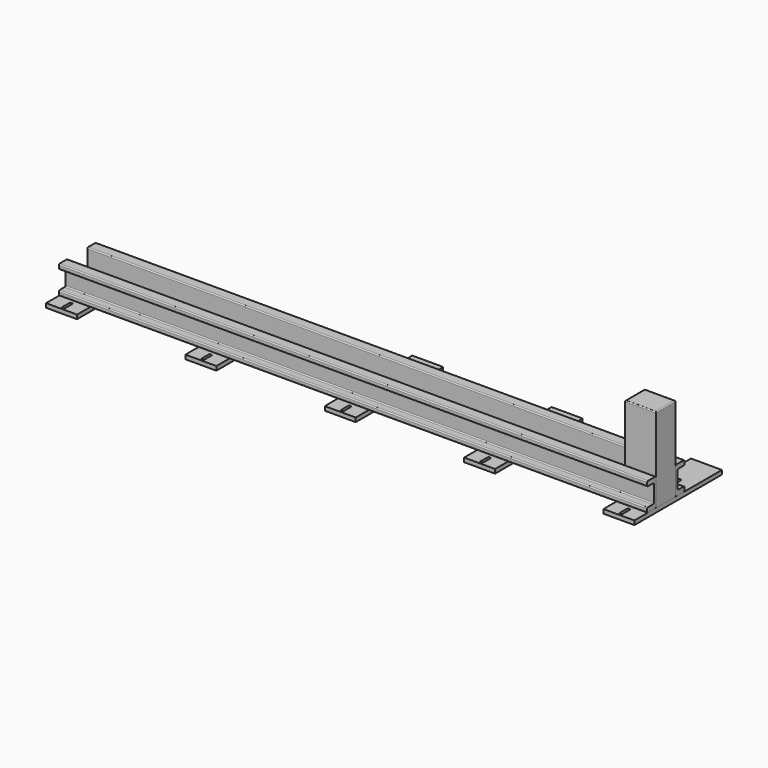
from build123d import *

# Parameters (mm, degrees)
F0_W     = 150
F0_H     = 380
F1_DEPTH = 20
F0_H_2   = 530
F3_DEPTH = 2850
F4_W     = 150
F4_H     = 120
F5_DEPTH = 410
F6_R     = 5


with BuildPart() as f1:
    # F0 (on Top) → F1 (new body)
    with BuildSketch(Plane.XY):
        with Locations((-1350, 0)):
            Rectangle(F0_W, F0_H)
        with BuildLine():
            ThreePointArc((-1357, -135), (-1350, -128), (-1343, -135))
            Line((-1343, -135), (-1343, -175))
            ThreePointArc((-1343, -175), (-1350, -182), (-1357, -175))
            Line((-1357, -175), (-1357, -135))
        make_face(mode=Mode.SUBTRACT)
        with BuildLine():
            Line((-1357, 135), (-1357, 175))
            ThreePointArc((-1357, 175), (-1350, 182), (-1343, 175))
            Line((-1343, 175), (-1343, 135))
            ThreePointArc((-1343, 135), (-1350, 128), (-1357, 135))
        make_face(mode=Mode.SUBTRACT)
    extrude(amount=F1_DEPTH)


with BuildPart() as f1b:
    # F0 (on Top) → F1, piece 2 (new body)
    with BuildSketch(Plane.XY):
        with Locations((-675, 0)):
            Rectangle(F0_W, F0_H)
        with BuildLine():
            Line((-668, -135), (-668, -175))
            ThreePointArc((-668, -175), (-675, -182), (-682, -175))
            Line((-682, -175), (-682, -135))
            ThreePointArc((-682, -135), (-675, -128), (-668, -135))
        make_face(mode=Mode.SUBTRACT)
        with BuildLine():
            ThreePointArc((-682, 175), (-675, 182), (-668, 175))
            Line((-668, 175), (-668, 135))
            ThreePointArc((-668, 135), (-675, 128), (-682, 135))
            Line((-682, 135), (-682, 175))
        make_face(mode=Mode.SUBTRACT)
    extrude(amount=F1_DEPTH)


with BuildPart() as f1c:
    # F0 (on Top) → F1, piece 3 (new body)
    with BuildSketch(Plane.XY):
        with Locations((0, 75)):
            Rectangle(F0_W, F0_H_2)
        with BuildLine():
            ThreePointArc((7, -175), (0, -182), (-7, -175))
            Line((-7, -175), (-7, -135))
            ThreePointArc((-7, -135), (0, -128), (7, -135))
            Line((7, -135), (7, -175))
        make_face(mode=Mode.SUBTRACT)
        with BuildLine():
            Line((-7, 135), (-7, 175))
            ThreePointArc((-7, 175), (0, 182), (7, 175))
            Line((7, 175), (7, 135))
            ThreePointArc((7, 135), (0, 128), (-7, 135))
        make_face(mode=Mode.SUBTRACT)
    extrude(amount=F1_DEPTH)


with BuildPart() as f1d:
    # F0 (on Top) → F1, piece 4 (new body)
    with BuildSketch(Plane.XY):
        with Locations((675, 75)):
            Rectangle(F0_W, F0_H_2)
        with BuildLine():
            ThreePointArc((682, -175), (675, -182), (668, -175))
            Line((668, -175), (668, -135))
            ThreePointArc((668, -135), (675, -128), (682, -135))
            Line((682, -135), (682, -175))
        make_face(mode=Mode.SUBTRACT)
        with BuildLine():
            ThreePointArc((668, 175), (675, 182), (682, 175))
            Line((682, 175), (682, 135))
            ThreePointArc((682, 135), (675, 128), (668, 135))
            Line((668, 135), (668, 175))
        make_face(mode=Mode.SUBTRACT)
    extrude(amount=F1_DEPTH)


with BuildPart() as f1e:
    # F0 (on Top) → F1, piece 5 (new body)
    with BuildSketch(Plane.XY):
        with Locations((1350, 75)):
            Rectangle(F0_W, F0_H_2)
        with BuildLine():
            ThreePointArc((1357, -175), (1350, -182), (1343, -175))
            Line((1343, -175), (1343, -135))
            ThreePointArc((1343, -135), (1350, -128), (1357, -135))
            Line((1357, -135), (1357, -175))
        make_face(mode=Mode.SUBTRACT)
        with BuildLine():
            ThreePointArc((1343, 175), (1350, 182), (1357, 175))
            Line((1357, 175), (1357, 135))
            ThreePointArc((1357, 135), (1350, 128), (1343, 135))
            Line((1343, 135), (1343, 175))
        make_face(mode=Mode.SUBTRACT)
    extrude(amount=F1_DEPTH)


with BuildPart() as f3:
    # F2 (on face) → F3 (new body)
    with BuildSketch(Plane.YZ.offset(1425)):
        with BuildLine():
            ThreePointArc((-60, 150.5), (-61.4644660941, 154.0355339059), (-65, 155.5))
            Line((-65, 155.5), (-108, 155.5))
            ThreePointArc((-108, 155.5), (-111.5355339059, 154.0355339059), (-113, 150.5))
            Line((-113, 150.5), (-113, 137.5))
            ThreePointArc((-113, 137.5), (-111.5355339059, 133.9644660941), (-108, 132.5))
            Line((-108, 132.5), (-77.5, 132.5))
            ThreePointArc((-77.5, 132.5), (-73.9644660941, 131.0355339059), (-72.5, 127.5))
            Line((-72.5, 127.5), (-72.5, 48))
            ThreePointArc((-72.5, 48), (-73.9644660941, 44.4644660941), (-77.5, 43))
            Line((-77.5, 43), (-108, 43))
            ThreePointArc((-108, 43), (-111.5355339059, 41.5355339059), (-113, 38))
            Line((-113, 38), (-113, 25))
            ThreePointArc((-113, 25), (-111.5355339059, 21.4644660941), (-108, 20))
            Line((-108, 20), (-65, 20))
            ThreePointArc((-65, 20), (-61.4644660941, 21.4644660941), (-60, 25))
            Line((-60, 25), (-60, 150.5))
        make_face()
    extrude(amount=-F3_DEPTH)


with BuildPart() as f3b:
    # F2 (on face) → F3, piece 2 (new body)
    with BuildSketch(Plane.YZ.offset(1425)):
        with BuildLine():
            ThreePointArc((65, 155.5), (61.4644660941, 154.0355339059), (60, 150.5))
            Line((60, 150.5), (60, 25))
            ThreePointArc((60, 25), (61.4644660941, 21.4644660941), (65, 20))
            Line((65, 20), (108, 20))
            ThreePointArc((108, 20), (111.5355339059, 21.4644660941), (113, 25))
            Line((113, 25), (113, 38))
            ThreePointArc((113, 38), (111.5355339059, 41.5355339059), (108, 43))
            Line((108, 43), (77.5, 43))
            ThreePointArc((77.5, 43), (73.9644660941, 44.4644660941), (72.5, 48))
            Line((72.5, 48), (72.5, 127.5))
            ThreePointArc((72.5, 127.5), (73.9644660941, 131.0355339059), (77.5, 132.5))
            Line((77.5, 132.5), (108, 132.5))
            ThreePointArc((108, 132.5), (111.5355339059, 133.9644660941), (113, 137.5))
            Line((113, 137.5), (113, 150.5))
            ThreePointArc((113, 150.5), (111.5355339059, 154.0355339059), (108, 155.5))
            Line((108, 155.5), (65, 155.5))
        make_face()
    extrude(amount=-F3_DEPTH)


with BuildPart() as f5:
    # F4 (on face) → F5 (new body)
    with BuildSketch(Plane.XY.offset(20)):
        with Locations((1350, 0)):
            Rectangle(F4_W, F4_H)
    extrude(amount=F5_DEPTH)

    # F6
    f6_edges = [f5.edges().sort_by_distance(p)[0] for p in [
        (1425, 0, 430),
        (1350, 60, 430),
        (1275, 0, 430),
        (1350, -60, 430),
    ]]
    fillet(f6_edges, radius=F6_R)


solid = Compound([f1.part, f1b.part, f1c.part, f1d.part, f1e.part, f3.part, f3b.part, f5.part])
